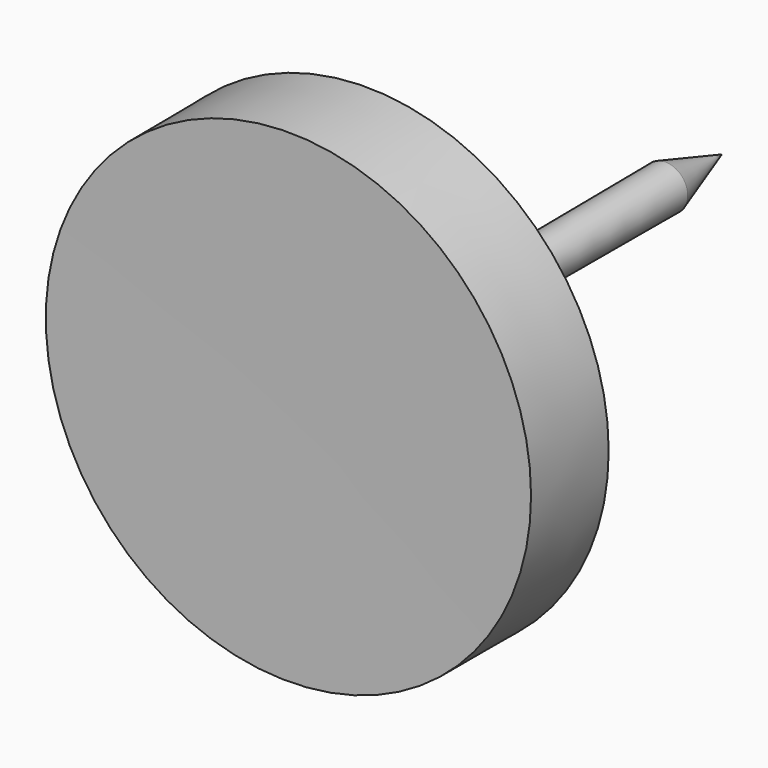
from build123d import *


with BuildPart() as f1:
    # F0 (on Top) → F1 (revolve)
    with BuildSketch(Plane.XY):
        Polygon((-66.6158646345, 0), (71.9380378723, 0), (71.9380378723, 55.6167066097), (62.3581297696, 55.6167066097), (62.3581297696, 49.0526966751), (54.5522719622, 49.0526966751), (54.5522719622, 41.956461966), (46.7464216053, 41.956461966), (46.7464216053, 34.8602347076), (39.1179732978, 34.8602347076), (39.1179732978, 26.8769748509), (29.892873019, 26.8769748509), (29.892873019, 19.2485246807), (22.4418267608, 19.2485246807), (22.4418267608, 12.5071061775), (15.5230062082, 12.5071061775), (15.5230062082, 5.4108761251), (8.6041800678, 5.4108761251), (8.6041800678, 1.507949084), (-5.0560631789, 1.507949084), (-5.0560631789, 6.8301218562), (-13.9263533056, 6.8301218562), (-13.9263533056, 12.5071061775), (-23.6836709082, 12.5071061775), (-23.6836709082, 18.1840918958), (-31.4895249903, 18.1840918958), (-31.4895249903, 25.2803210169), (-37.3439155519, 25.2803210169), (-37.3439155519, 33.6183905602), (-42.843490839, 33.6183905602), (-42.843490839, 40.7146215439), (-49.2300987244, 40.7146215439), (-49.2300987244, 48.5204793513), (-55.0844892859, 48.5204793513), (-55.0844892859, 170.8428710699), (-55.0844892859, 270.9693610668), (-67.9839998484, 311.6098642349), align=None)
    revolve(axis=Axis((-67.2999322414, 155.8049321175, 0), (-0.0043904965, 0.9999903617, 0)))


solid = f1.part
